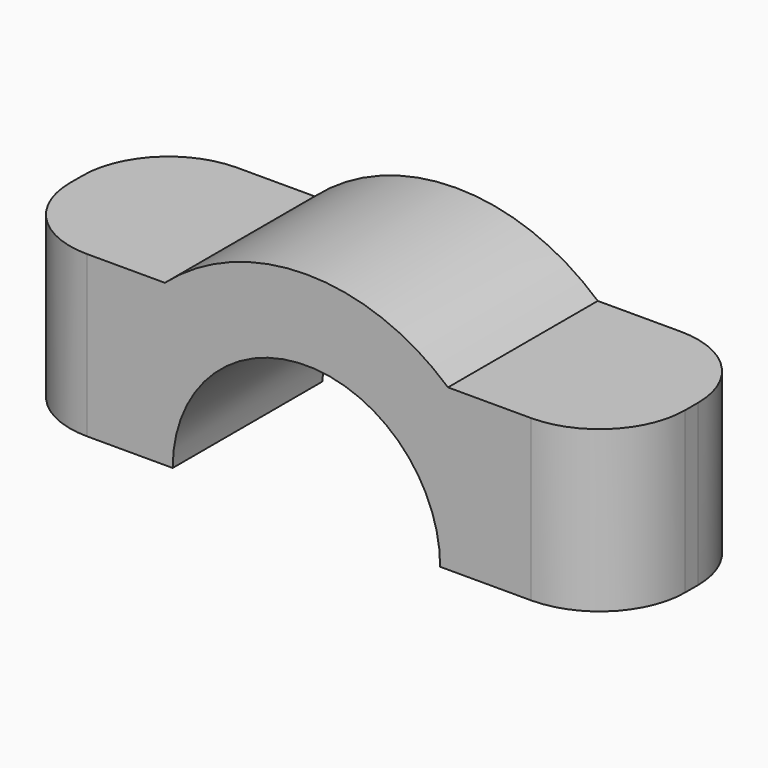
from build123d import *

# Parameters (mm, degrees)
F1_DEPTH = 11.1125
F2_R     = 5.08


with BuildPart() as f1:
    # F0 (on Front) → F1 (new body)
    with BuildSketch(Plane.XZ):
        with BuildLine():
            ThreePointArc((-7.9375, 0), (0, 7.9375), (7.9375, 0))
            Line((7.9375, 0), (18.415, 0))
            Line((18.415, 0), (18.415, 9.525))
            Line((18.415, 9.525), (8.40026, 9.525))
            ThreePointArc((8.40026, 9.525), (0, 12.7), (-8.40026, 9.525))
            Line((-8.40026, 9.525), (-18.0975, 9.525))
            Line((-18.0975, 9.525), (-18.0975, 0))
            Line((-18.0975, 0), (-7.9375, 0))
        make_face()
    extrude(amount=F1_DEPTH)

    # F2
    f2_edges = [f1.edges().sort_by_distance(p)[0] for p in [
        (-18.0975, -11.1125, 4.7625),
        (18.415, -11.1125, 4.7625),
        (18.415, 0, 4.7625),
        (-18.0975, 0, 4.7625),
    ]]
    fillet(f2_edges, radius=F2_R)


solid = f1.part
